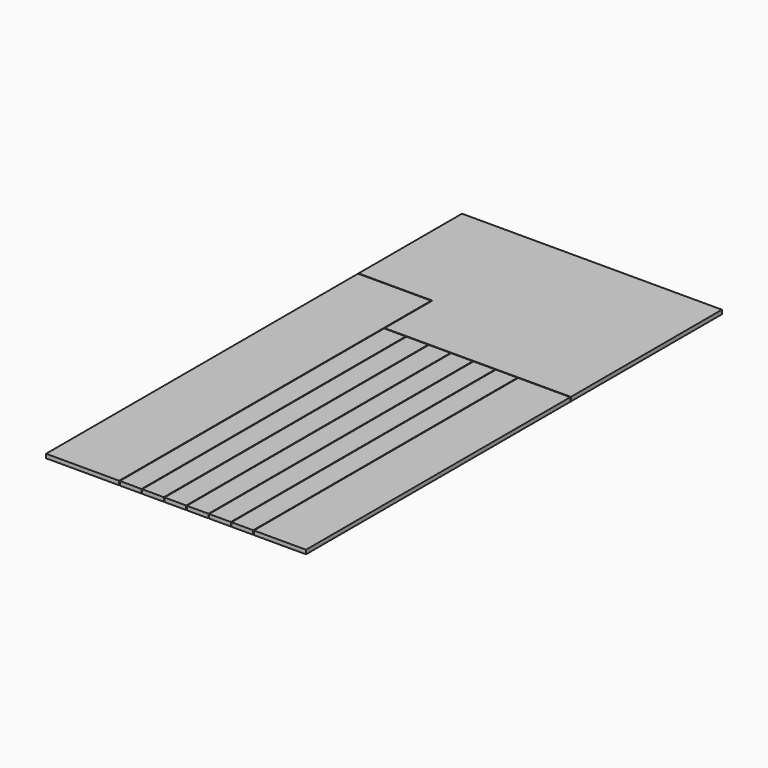
from build123d import *

# Parameters (mm, degrees)
F0_W     = 1219.2
F0_H     = 2438.4
F1_DEPTH = 19.05
F2_W     = 3.175
F2_H     = 1549.4
F3_DEPTH = 19.05


with BuildPart() as f1:
    # F0 (on Top) → F1 (new body)
    with BuildSketch(Plane.XY):
        Rectangle(F0_W, F0_H)
    extrude(amount=F1_DEPTH)

    # F2 (on face) → F3 (cut, through all)
    with BuildSketch(Plane.XY.offset(19.05)):
        Polygon((-266.7, 609.6), (-266.7, -1219.2), (-263.525, -1219.2), (-263.525, 330.2), (-263.525, 333.375), (-263.525, 609.6), align=None)
        Polygon((-609.6, 609.6), (-266.7, 609.6), (-263.525, 609.6), (-263.525, 612.775), (-609.6, 612.775), align=None)
        Polygon((-263.525, 333.375), (-263.525, 330.2), (-161.925, 330.2), (-158.75, 330.2), (-57.15, 330.2), (-53.975, 330.2), (47.625, 330.2), (50.8, 330.2), (152.4, 330.2), (155.575, 330.2), (257.175, 330.2), (260.35, 330.2), (361.95, 330.2), (365.125, 330.2), (609.6, 330.2), (609.6, 333.375), align=None)
        with Locations((-160.3375, -444.5)):
            Rectangle(F2_W, F2_H)
        with Locations((-55.5625, -444.5)):
            Rectangle(F2_W, F2_H)
        with Locations((363.5375, -444.5)):
            Rectangle(F2_W, F2_H)
        with Locations((49.2125, -444.5)):
            Rectangle(F2_W, F2_H)
        with Locations((258.7625, -444.5)):
            Rectangle(F2_W, F2_H)
        with Locations((153.9875, -444.5)):
            Rectangle(F2_W, F2_H)
    extrude(amount=-F3_DEPTH, mode=Mode.SUBTRACT)


solid = f1.part
